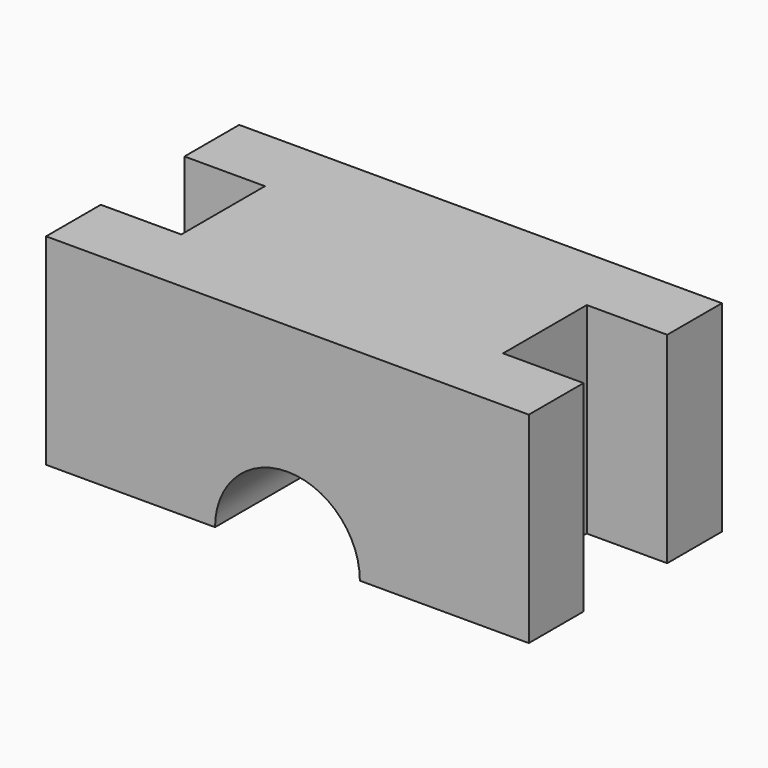
from build123d import *

# Parameters (mm, degrees)
F1_DEPTH = 60
F2_W     = 20
F2_H     = 26
F3_DEPTH = 50.001
F5_W     = 20
F5_H     = 26
F6_DEPTH = 50.001


with BuildPart() as f1:
    # F0 (on Front) → F1 (new body)
    with BuildSketch(Plane.XZ):
        with BuildLine():
            Line((60, 25), (-60, 25))
            Line((-60, 25), (-60, -25))
            Line((-60, -25), (-18, -25))
            ThreePointArc((-18, -25), (0, -7), (18, -25))
            Line((18, -25), (60, -25))
            Line((60, -25), (60, 25))
        make_face()
    extrude(amount=F1_DEPTH)

    # F2 (on face) → F3 (cut, through all)
    with BuildSketch(Plane.XY.offset(25)):
        with Locations((-50, -30)):
            Rectangle(F2_W, F2_H)
    extrude(amount=-F3_DEPTH, mode=Mode.SUBTRACT)

    # F5 (on face) → F6 (cut, through all)
    with BuildSketch(Plane.XY.offset(25)):
        with Locations((50, -30)):
            Rectangle(F5_W, F5_H)
    extrude(amount=-F6_DEPTH, mode=Mode.SUBTRACT)


solid = f1.part
